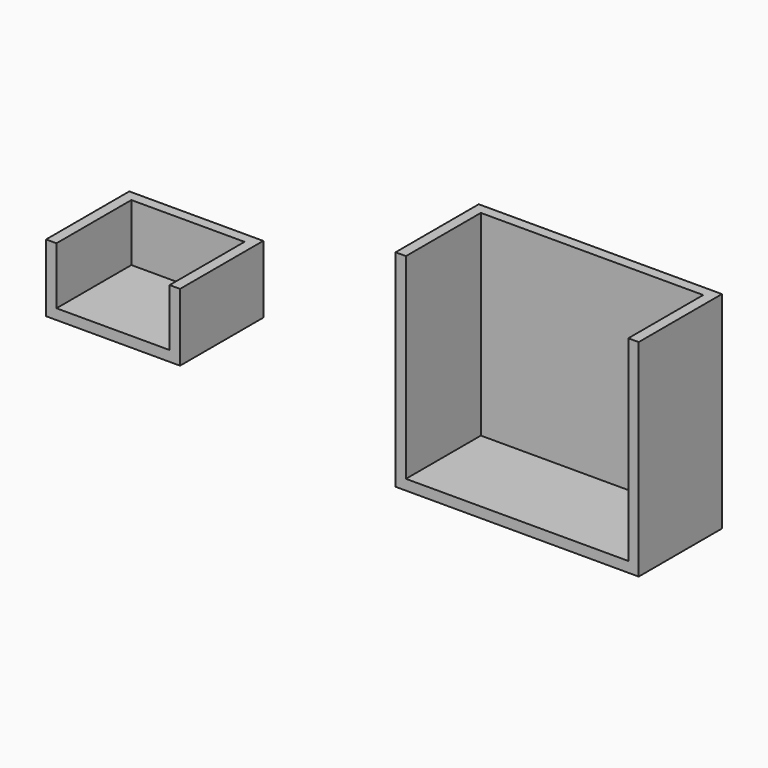
from build123d import *

# Parameters (mm, degrees)
F0_W     = 32.7112972736
F0_H     = 16.5127553046
F1_DEPTH = 25.4
F0_W_2   = 59.3781042844
F0_H_2   = 50.4149533808
F2_T     = -2.54
F2_2_T   = -2.54


with BuildPart() as f1:
    # F0 (on Front) → F1 (new body)
    with BuildSketch(Plane.XZ):
        with Locations((-94.9338600039, 49.3953768164)):
            Rectangle(F0_W, F0_H)
    extrude(amount=F1_DEPTH)

    # F2
    f2_openings = [f1.faces().sort_by_distance(p)[0] for p in [
        (-94.93386, -12.7, 57.651754),
        (-94.93386, -25.4, 49.395377),
    ]]
    offset(amount=F2_T, openings=f2_openings)


with BuildPart() as f1b:
    # F0 (on Front) → F1, piece 2 (new body)
    with BuildSketch(Plane.XZ):
        with Locations((3.7333546206, 57.4335958809)):
            Rectangle(F0_W_2, F0_H_2)
    extrude(amount=F1_DEPTH)

    # F2#2
    f2_2_openings = [f1b.faces().sort_by_distance(p)[0] for p in [
        (3.733355, -25.4, 57.433596),
        (3.733355, -12.7, 82.641073),
    ]]
    offset(amount=F2_2_T, openings=f2_2_openings)


solid = Compound([f1.part, f1b.part])
